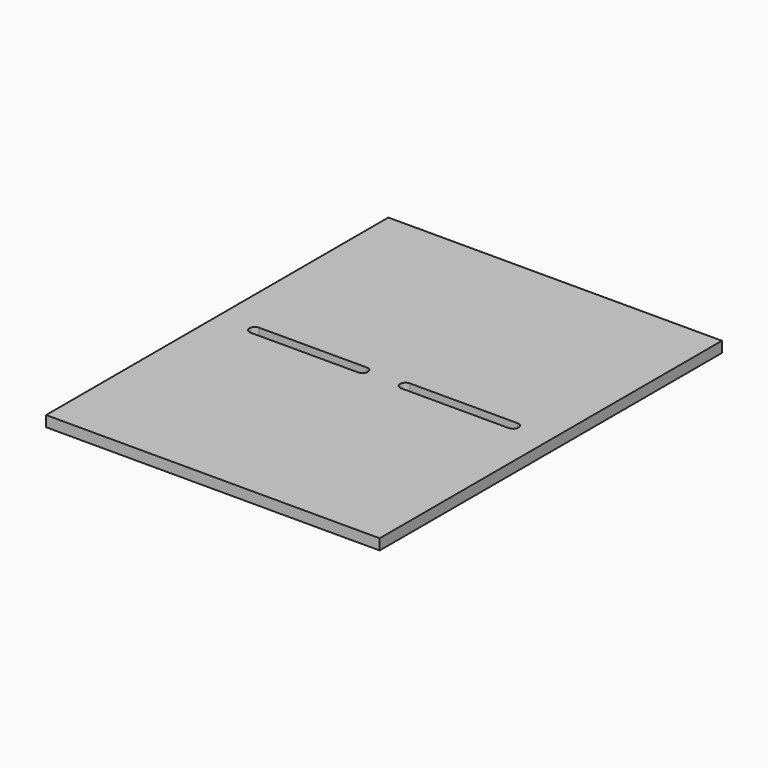
from build123d import *

# Parameters (mm, degrees)
F0_W     = 393.7
F0_H     = 504.825
F1_DEPTH = 12.7
F3_DEPTH = 12.7


with BuildPart() as f1:
    # F0 (on Top) → F1 (new body)
    with BuildSketch(Plane.XY):
        Rectangle(F0_W, F0_H)
    extrude(amount=F1_DEPTH)

    # F2 (on Top) → F3 (cut, symmetric)
    with BuildSketch(Plane.XY):
        with BuildLine():
            ThreePointArc((-152.4, 6.35), (-158.75, 0), (-152.4, -6.35))
            Line((-152.4, -6.35), (-25.4, -6.35))
            ThreePointArc((-25.4, -6.35), (-19.05, 0), (-25.4, 6.35))
            Line((-25.4, 6.35), (-152.4, 6.35))
        make_face()
        with BuildLine():
            ThreePointArc((152.4, -6.35), (158.75, 0), (152.4, 6.35))
            Line((152.4, 6.35), (25.4, 6.35))
            ThreePointArc((25.4, 6.35), (19.05, 0), (25.4, -6.35))
            Line((25.4, -6.35), (152.4, -6.35))
        make_face()
    extrude(amount=F3_DEPTH, both=True, mode=Mode.SUBTRACT)


solid = f1.part
